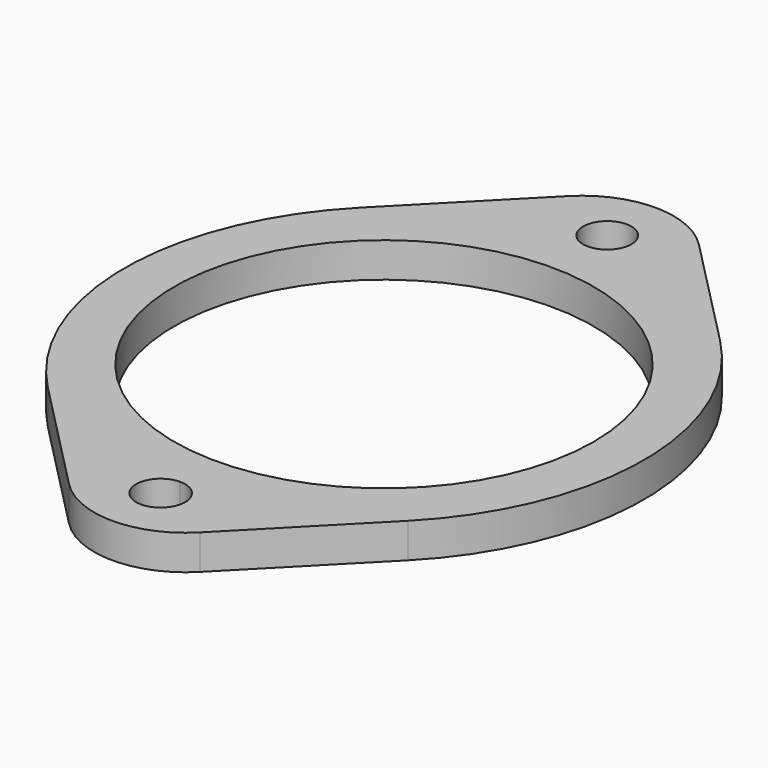
from build123d import *

# Parameters (mm, degrees)
F0_R     = 38.288437
F0_R_2   = 4.4069
F1_DEPTH = 6.35


with BuildPart() as f1:
    # F0 (on Top) → F1 (new body)
    with BuildSketch(Plane.XY):
        with BuildLine():
            ThreePointArc((12.395513, 51.224059), (0.470607, 56.227106), (-11.454299, 51.224059))
            Line((-11.454299, 51.224059), (-32.375696, 29.918984))
            ThreePointArc((-32.375696, 29.918984), (-46.92978, -5.660917), (-32.394285, -41.248415))
            Line((-32.394285, -41.248415), (-11.460414, -62.588481))
            ThreePointArc((-11.460414, -62.588481), (0.470607, -67.597759), (12.401629, -62.588481))
            Line((12.401629, -62.588481), (33.335499, -41.248415))
            ThreePointArc((33.335499, -41.248415), (47.870994, -5.660917), (33.31691, 29.918984))
            Line((33.31691, 29.918984), (12.395513, 51.224059))
        make_face()
        with BuildLine():
            ThreePointArc((0.470607, -52.150294), (3.62792, -53.458096), (4.935722, -56.615409))
            ThreePointArc((4.935722, -56.615409), (-2.686706, -59.772722), (0.470607, -52.150294))
        make_face(mode=Mode.SUBTRACT)
        with Locations((0.470607, -5.686851)):
            Circle(F0_R, mode=Mode.SUBTRACT)
        with Locations((0.470607, 45.241707)):
            Circle(F0_R_2, mode=Mode.SUBTRACT)
    extrude(amount=F1_DEPTH)


solid = f1.part
